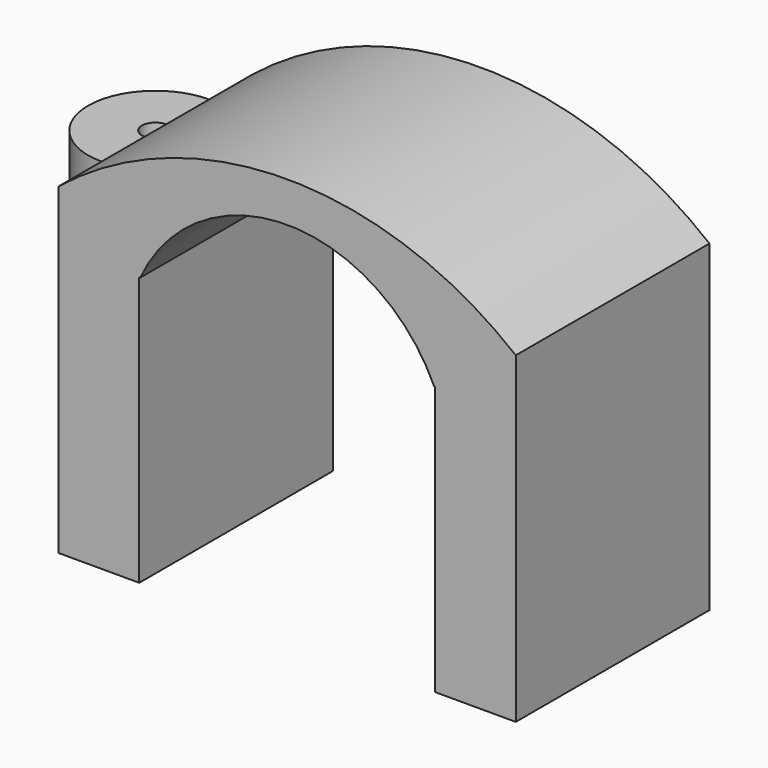
from build123d import *

# Parameters (mm, degrees)
F1_DEPTH = 9
F3_DEPTH = 12


with BuildPart() as f1:
    # F0 (on Front) → F1 (new body)
    with BuildSketch(Plane.XZ):
        with BuildLine():
            Line((0, 12), (0, 0))
            Line((0, 0), (3, 0))
            Line((3, 0), (3, 9.9171948475))
            Line((3, 9.9171948475), (3, 10))
            Line((3, 10), (3.0371407733, 10))
            ThreePointArc((3.0371407733, 10), (8.5, 13.5077309303), (13.9628592267, 10))
            Line((13.9628592267, 10), (14, 10))
            Line((14, 10), (14, 9.9171948475))
            Line((14, 9.9171948475), (14, 0))
            Line((14, 0), (17, 0))
            Line((17, 0), (17, 12))
            ThreePointArc((17, 12), (8.5, 15), (0, 12))
        make_face()
    extrude(amount=F1_DEPTH)

    # F2 (on Top) → F3 (join)
    with BuildSketch(Plane.XY):
        with BuildLine():
            ThreePointArc((0, -2), (-2.5, -4.5), (0, -7))
            Line((0, -7), (0, -5))
            ThreePointArc((0, -5), (-0.5, -4.5), (0, -4))
            Line((0, -4), (0, -2))
        make_face()
    extrude(amount=F3_DEPTH)


solid = f1.part
